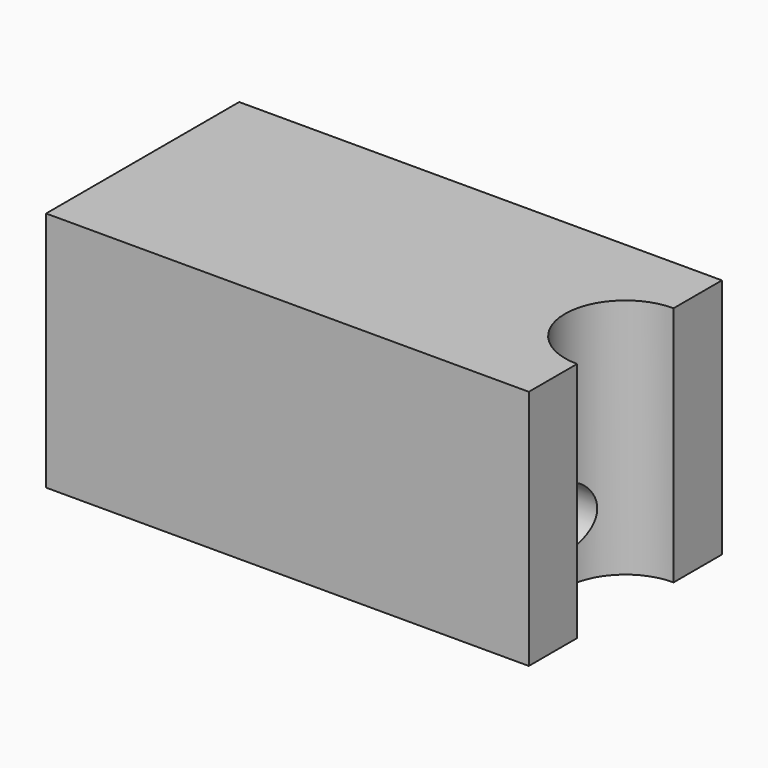
from build123d import *

# Parameters (mm, degrees)
F0_W     = 101.6
F0_H     = 50.8
F1_DEPTH = 50.8
F3_DEPTH = 50.801
F4_R     = 6.35
F5_DEPTH = 101.601


with BuildPart() as f1:
    # F0 (on Top) → F1 (new body)
    with BuildSketch(Plane.XY):
        with Locations((50.8, 25.4)):
            Rectangle(F0_W, F0_H)
    extrude(amount=F1_DEPTH)

    # F2 (on face) → F3 (cut, through all)
    with BuildSketch(Plane.XY.offset(50.8)):
        with BuildLine():
            Line((101.6, 12.7), (101.6, 38.1))
            ThreePointArc((101.6, 38.1), (88.9, 25.4), (101.6, 12.7))
        make_face()
    extrude(amount=-F3_DEPTH, mode=Mode.SUBTRACT)

    # F4 (on face) → F5 (cut, through all)
    with BuildSketch(Plane(origin=(0, 0, 0), x_dir=(0, -1, 0), z_dir=(-1, 0, 0))):
        with Locations((-25.4, 12.7)):
            Circle(F4_R)
    extrude(amount=-F5_DEPTH, mode=Mode.SUBTRACT)


solid = f1.part
